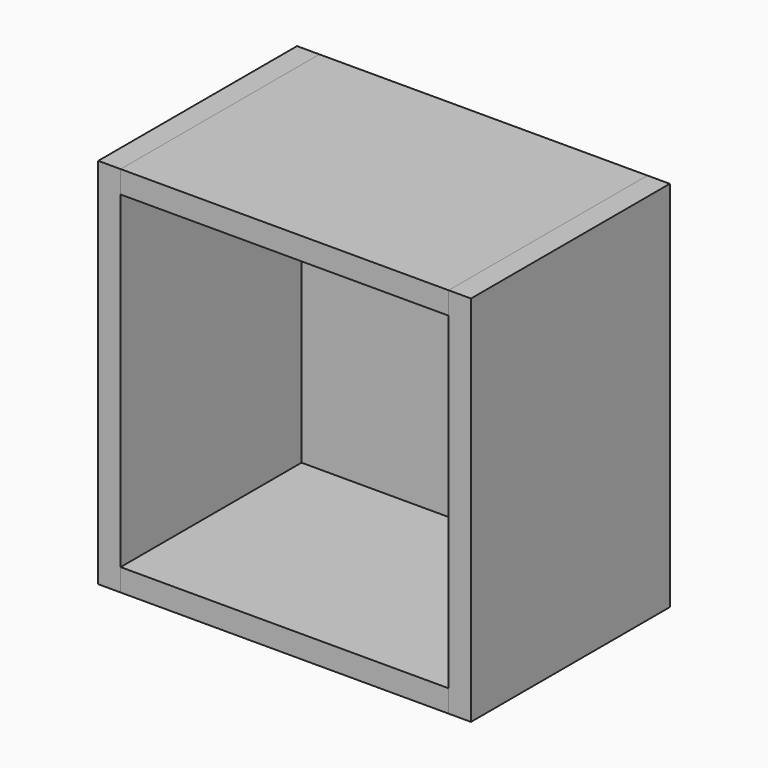
from build123d import *

# Parameters (mm, degrees)
F1_W     = 264
F1_H     = 18
F2_DEPTH = 200
F3_DEPTH = 200
F1_H_2   = 264
F4_DEPTH = 18


with BuildPart() as f2:
    # F1 (on Front) → F2 (new body)
    with BuildSketch(Plane.XZ):
        with Locations((150, 291)):
            Rectangle(F1_W, F1_H)
    extrude(amount=F2_DEPTH)


with BuildPart() as f2b:
    # F1 (on Front) → F2, piece 2 (new body)
    with BuildSketch(Plane.XZ):
        with Locations((150, 9)):
            Rectangle(F1_W, F1_H)
    extrude(amount=F2_DEPTH)


with BuildPart() as f3:
    # F1 (on Front) → F3 (new body)
    with BuildSketch(Plane.XZ):
        Polygon((0, 300), (0, 0), (18, 0), (18, 18), (18, 282), (18, 300), align=None)
    extrude(amount=F3_DEPTH)


with BuildPart() as f3b:
    # F1 (on Front) → F3, piece 2 (new body)
    with BuildSketch(Plane.XZ):
        Polygon((282, 18), (282, 0), (300, 0), (300, 300), (282, 300), (282, 282), align=None)
    extrude(amount=F3_DEPTH)


with BuildPart() as f4:
    # F1 (on Front) → F4 (new body)
    with BuildSketch(Plane.XZ):
        with Locations((150, 150)):
            Rectangle(F1_W, F1_H_2)
    extrude(amount=F4_DEPTH)


solid = Compound([f2.part, f2b.part, f3.part, f3b.part, f4.part])
